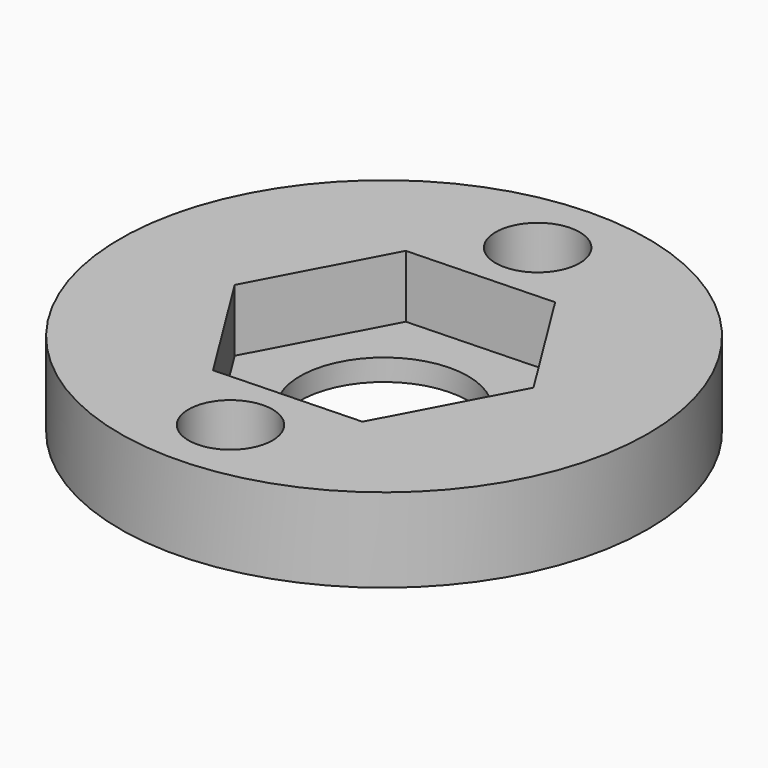
from build123d import *

# Parameters (mm, degrees)
F0_R     = 11
F0_R_2   = 1.75
F0_R_3   = 3.5
F1_DEPTH = 3.5
F2_DEPTH = 2.6
F3_W     = 22
F3_H     = 22
F4_DEPTH = 25


with BuildPart() as f1:
    # F0 (on Top) → F1 (new body, symmetric)
    with BuildSketch(Plane.XY):
        Circle(F0_R)
        with Locations((0, -8)):
            Circle(F0_R_2, mode=Mode.SUBTRACT)
        Polygon((-2.847942, -5.351563), (-6.05856, -0.209391), (-3.210618, 5.142172), (2.847942, 5.351563), (6.05856, 0.209391), (3.210618, -5.142172), align=None, mode=Mode.SUBTRACT)
        with Locations((0, 8)):
            Circle(F0_R_2, mode=Mode.SUBTRACT)
        Polygon((-3.210618, 5.142172), (-6.05856, -0.209391), (-2.847942, -5.351563), (3.210618, -5.142172), (6.05856, 0.209391), (2.847942, 5.351563), align=None)
        Circle(F0_R_3, mode=Mode.SUBTRACT)
    extrude(amount=F1_DEPTH, both=True)

    # F0 (on Top) → F2 (cut, symmetric)
    with BuildSketch(Plane.XY):
        Polygon((-3.210618, 5.142172), (-6.05856, -0.209391), (-2.847942, -5.351563), (3.210618, -5.142172), (6.05856, 0.209391), (2.847942, 5.351563), align=None)
        Circle(F0_R_3, mode=Mode.SUBTRACT)
    extrude(amount=F2_DEPTH, both=True, mode=Mode.SUBTRACT)

    # F3 (on Top) → F4 (cut)
    with BuildSketch(Plane.XY):
        Rectangle(F3_W, F3_H)
    extrude(amount=F4_DEPTH, mode=Mode.SUBTRACT)


solid = f1.part
